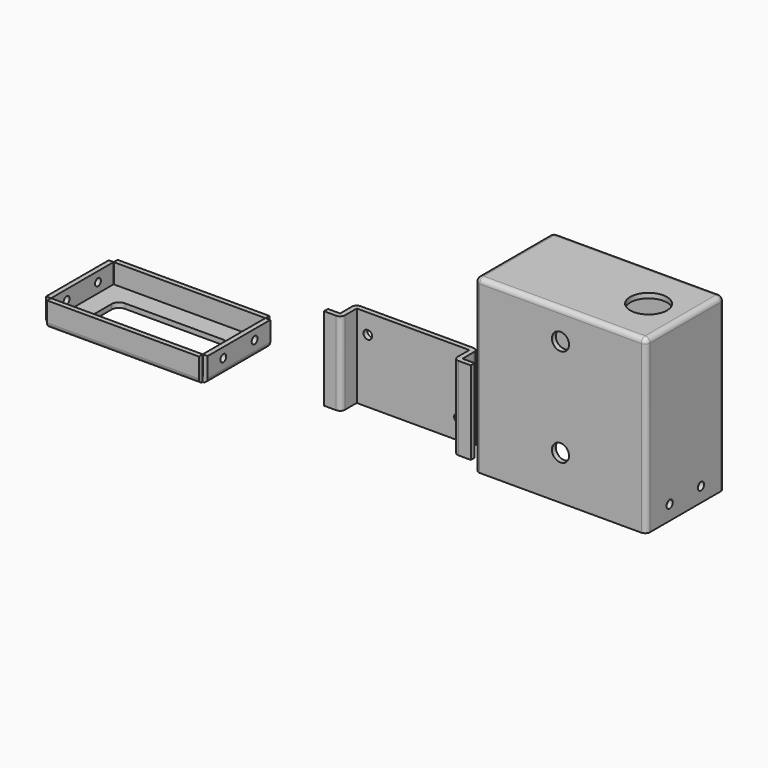
from build123d import *

# Parameters (mm, degrees)
F1_DEPTH  = 34
F3_D      = 3.5
F4_W      = 70
F4_H      = 40
F5_DEPTH  = 70
F6_W      = 66
F6_H      = 36
F7_DEPTH  = 68
F9_D      = 15
F11_D     = 3.2
F11_2_D   = 3.2
F12_R     = 3
F13_DEPTH = 2
F14_W     = 62
F14_H     = 32
F14_W_2   = 2
F14_H_2   = 2
F15_DEPTH = 2
F17_DEPTH = 8
F19_D     = 3
F20_R     = 2
F21_R     = 2
F22_R     = 3.5
F23_DEPTH = 2


with BuildPart() as f1:
    # F0 (on Top) → F1 (new body)
    with BuildSketch(Plane.XY):
        with BuildLine():
            Line((-35.108696, 0), (-40.108696, 0))
            Line((-40.108696, 0), (-40.108696, -2))
            Line((-40.108696, -2), (-35.108696, -2))
            ThreePointArc((-35.108696, -2), (-33.694482, -1.414214), (-33.108696, 0))
            Line((-33.108696, 0), (-33.108696, 6))
            Line((-33.108696, 6), (12.891304, 6))
            Line((12.891304, 6), (12.891304, 0))
            ThreePointArc((12.891304, 0), (13.477091, -1.414214), (14.891304, -2))
            Line((14.891304, -2), (19.891304, -2))
            Line((19.891304, -2), (19.891304, 0))
            Line((19.891304, 0), (14.891304, 0))
            Line((14.891304, 0), (14.891304, 6))
            ThreePointArc((14.891304, 6), (14.305518, 7.414214), (12.891304, 8))
            Line((12.891304, 8), (-33.108696, 8))
            ThreePointArc((-33.108696, 8), (-34.522909, 7.414214), (-35.108696, 6))
            Line((-35.108696, 6), (-35.108696, 0))
        make_face()
    extrude(amount=F1_DEPTH)

    # F3 (through all)
    with Locations(Plane.XZ.offset(-6)):
        with Locations((-28.608696, 26), (8.391304, 8)):
            Hole(F3_D / 2)

    # F11 (through all)
    with Locations(Plane.YZ.offset(95.731638)):
        with Locations((20.74827, 6), (4.74827, 6)):
            Hole(F11_D / 2)


with BuildPart() as f5:
    # F4 (on Top) → F5 (new body)
    with BuildSketch(Plane.XY):
        with Locations((60.731638, 12.74827)):
            Rectangle(F4_W, F4_H)
    extrude(amount=F5_DEPTH)

    # F6 (on face) → F7 (cut)
    with BuildSketch(Plane(origin=(0, 0, 0), x_dir=(1, 0, 0), z_dir=(0, 0, -1))):
        with Locations((60.731638, -12.74827)):
            Rectangle(F6_W, F6_H)
    extrude(amount=-F7_DEPTH, mode=Mode.SUBTRACT)

    # F9 (through all)
    with Locations(Plane.XY.offset(70)):
        with Locations((80.731638, 12.74827)):
            Hole(F9_D / 2)

    # F11#2 (through all)
    with Locations(Plane.YZ.offset(95.731638)):
        with Locations((20.74827, 6), (4.74827, 6)):
            Hole(F11_2_D / 2)

    # F12 (on face) → F13 (cut)
    with BuildSketch(Plane(origin=(0, 32.74827, 0), x_dir=(-1, 0, 0), z_dir=(0, 1, 0))):
        with Locations((-42.231638, 38)):
            Circle(F12_R)
        with Locations((-79.231638, 20)):
            Circle(F12_R)
    extrude(amount=-F13_DEPTH, mode=Mode.SUBTRACT)

    # F21
    f21_edges = [f5.edges().sort_by_distance(p)[0] for p in [
        (95.731638, 32.74827, 35),
        (60.731638, 32.74827, 70),
        (95.731638, 12.74827, 70),
        (95.731638, -7.25173, 35),
        (25.731638, 12.74827, 70),
        (60.731638, -7.25173, 70),
        (25.731638, 32.74827, 35),
        (25.731638, -7.25173, 35),
    ]]
    fillet(f21_edges, radius=F21_R)

    # F22 (on face) → F23 (cut)
    with BuildSketch(Plane.XZ.offset(7.25173)):
        with Locations((60.731638, 58)):
            Circle(F22_R)
        with Locations((60.731638, 18)):
            Circle(F22_R)
    extrude(amount=-F23_DEPTH, mode=Mode.SUBTRACT)


with BuildPart() as f15:
    # F14 (on Top) → F15 (new body)
    with BuildSketch(Plane.XY):
        with Locations((-111.509465, 2.583135)):
            Rectangle(F14_W, F14_H)
        with BuildLine():
            ThreePointArc((-134.509465, 7.583135), (-133.630785, 9.704455), (-131.509465, 10.583135))
            Line((-131.509465, 10.583135), (-91.509465, 10.583135))
            ThreePointArc((-91.509465, 10.583135), (-89.388144, 9.704455), (-88.509465, 7.583135))
            Line((-88.509465, 7.583135), (-88.509465, -2.416865))
            ThreePointArc((-88.509465, -2.416865), (-89.388144, -4.538185), (-91.509465, -5.416865))
            Line((-91.509465, -5.416865), (-131.509465, -5.416865))
            ThreePointArc((-131.509465, -5.416865), (-133.630785, -4.538185), (-134.509465, -2.416865))
            Line((-134.509465, -2.416865), (-134.509465, 7.583135))
        make_face(mode=Mode.SUBTRACT)
        with Locations((-79.509465, 2.583135)):
            Rectangle(F14_W_2, F14_H)
        with Locations((-111.509465, -14.416865)):
            Rectangle(F14_W, F14_H_2)
        with Locations((-143.509465, 2.583135)):
            Rectangle(F14_W_2, F14_H)
        with Locations((-111.509465, 19.583135)):
            Rectangle(F14_W, F14_H_2)
    extrude(amount=F15_DEPTH)

    # F16 (on face) → F17 (join)
    with BuildSketch(Plane.XY.offset(2)):
        with BuildLine():
            Line((-142.509465, 20.583135), (-142.509465, 18.683135))
            ThreePointArc((-142.509465, 18.683135), (-142.480175, 18.612424), (-142.409465, 18.583135))
            Line((-142.409465, 18.583135), (-80.609465, 18.583135))
            ThreePointArc((-80.609465, 18.583135), (-80.538754, 18.612424), (-80.509465, 18.683135))
            Line((-80.509465, 18.683135), (-80.509465, 20.583135))
            Line((-80.509465, 20.583135), (-142.509465, 20.583135))
        make_face()
        with BuildLine():
            Line((-142.609465, 18.583135), (-144.509465, 18.583135))
            Line((-144.509465, 18.583135), (-144.509465, -13.416865))
            Line((-144.509465, -13.416865), (-142.609465, -13.416865))
            ThreePointArc((-142.609465, -13.416865), (-142.538754, -13.387576), (-142.509465, -13.316865))
            Line((-142.509465, -13.316865), (-142.509465, 18.483135))
            ThreePointArc((-142.509465, 18.483135), (-142.538754, 18.553846), (-142.609465, 18.583135))
        make_face()
        with BuildLine():
            ThreePointArc((-142.409465, -13.416865), (-142.480175, -13.446154), (-142.509465, -13.516865))
            Line((-142.509465, -13.516865), (-142.509465, -15.416865))
            Line((-142.509465, -15.416865), (-80.509465, -15.416865))
            Line((-80.509465, -15.416865), (-80.509465, -13.516865))
            ThreePointArc((-80.509465, -13.516865), (-80.538754, -13.446154), (-80.609465, -13.416865))
            Line((-80.609465, -13.416865), (-142.409465, -13.416865))
        make_face()
        with BuildLine():
            Line((-78.509465, 18.583135), (-80.409465, 18.583135))
            ThreePointArc((-80.409465, 18.583135), (-80.480175, 18.553846), (-80.509465, 18.483135))
            Line((-80.509465, 18.483135), (-80.509465, -13.316865))
            ThreePointArc((-80.509465, -13.316865), (-80.480175, -13.387576), (-80.409465, -13.416865))
            Line((-80.409465, -13.416865), (-78.509465, -13.416865))
            Line((-78.509465, -13.416865), (-78.509465, 18.583135))
        make_face()
    extrude(amount=F17_DEPTH)

    # F19 (through all)
    with Locations(Plane(origin=(-144.509465, 0, 0), x_dir=(0, -1, 0), z_dir=(-1, 0, 0))):
        with Locations((-10.583135, 6), (5.416865, 6)):
            Hole(F19_D / 2)

    # F20
    f20_edges = [f15.edges().sort_by_distance(p)[0] for p in [
        (-144.509465, 2.583135, 0),
        (-111.509465, 20.583135, 0),
        (-78.509465, 2.583135, 0),
        (-111.509465, -15.416865, 0),
    ]]
    fillet(f20_edges, radius=F20_R)


solid = Compound([f1.part, f5.part, f15.part])
